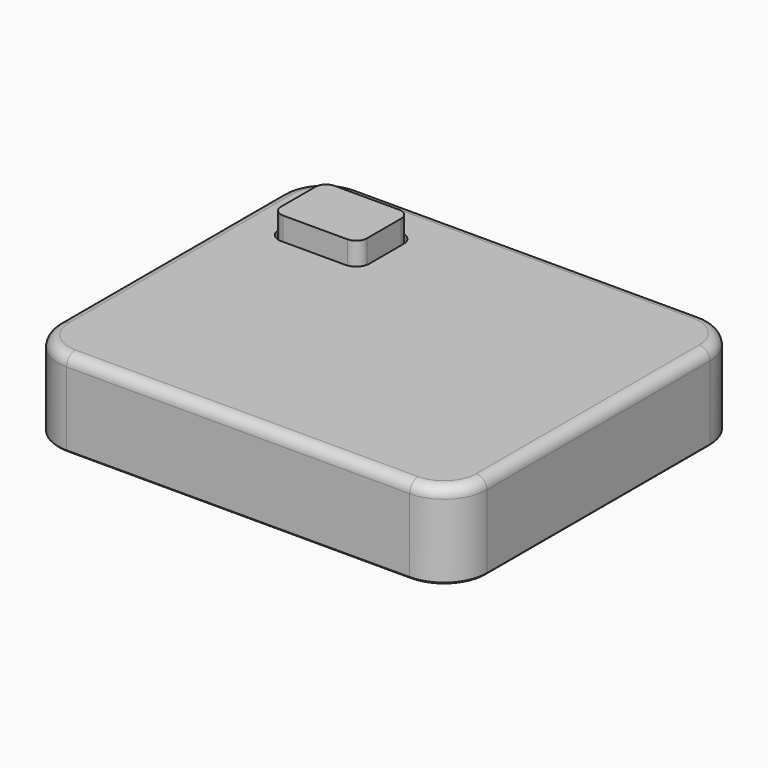
from build123d import *

# Parameters (mm, degrees)
F0_W       = 127
F0_H       = 107.95
F1_DEPTH   = 25.4
F2_W       = 25.4
F2_H       = 19.05
F3_DEPTH   = 6.35
F4_R       = 3.175
F5_R       = 1.524
F6_R       = 12.7
F7_R       = 3.175
F8_SIZE    = 0.508
F9_OFFSET  = 0.508
F10_OFFSET = 0.762


with BuildPart() as f1:
    # F0 (on Top) → F1 (new body)
    with BuildSketch(Plane.XY):
        Rectangle(F0_W, F0_H)
    extrude(amount=F1_DEPTH)

    # F6
    f6_edges = [f1.edges().sort_by_distance(p)[0] for p in [
        (63.5, -53.975, 12.7),
        (63.5, 53.975, 12.7),
        (-63.5, 53.975, 12.7),
        (-63.5, -53.975, 12.7),
    ]]
    fillet(f6_edges, radius=F6_R)

    # F7
    f7_edges = [f1.edges().sort_by_distance(p)[0] for p in [
        (0, -53.975, 25.4),
    ]]
    fillet(f7_edges, radius=F7_R)

    # F8
    f8_edges = [f1.edges().sort_by_distance(p)[0] for p in [
        (0, -53.975, 0),
    ]]
    chamfer(f8_edges, length=F8_SIZE)


with BuildPart() as f3:
    # F2 (on face) → F3 (new body, symmetric)
    with BuildSketch(Plane.XY.offset(25.4)):
        with Locations((-38.1, 31.75)):
            Rectangle(F2_W, F2_H)
    extrude(amount=F3_DEPTH, both=True)

    # F4
    f4_edges = [f3.edges().sort_by_distance(p)[0] for p in [
        (-25.4, 41.275, 25.4),
        (-25.4, 22.225, 25.4),
        (-50.8, 22.225, 25.4),
        (-50.8, 41.275, 25.4),
    ]]
    fillet(f4_edges, radius=F4_R)

    # F5
    f5_edges = [f3.edges().sort_by_distance(p)[0] for p in [
        (-38.1, 22.225, 19.05),
    ]]
    fillet(f5_edges, radius=F5_R)


with BuildPart() as f1_1:
    add(f1.part)

    # F9: cut F3, made larger all round first
    f9_tool = offset(f3.part, amount=F9_OFFSET, kind=Kind.INTERSECTION, mode=Mode.PRIVATE)
    add(f9_tool, mode=Mode.SUBTRACT)

    # F10: cut F3, made larger all round first
    f10_tool = offset(f3.part, amount=F10_OFFSET, kind=Kind.INTERSECTION, mode=Mode.PRIVATE)
    add(f10_tool, mode=Mode.SUBTRACT)


solid = Compound([f3.part, f1_1.part])
